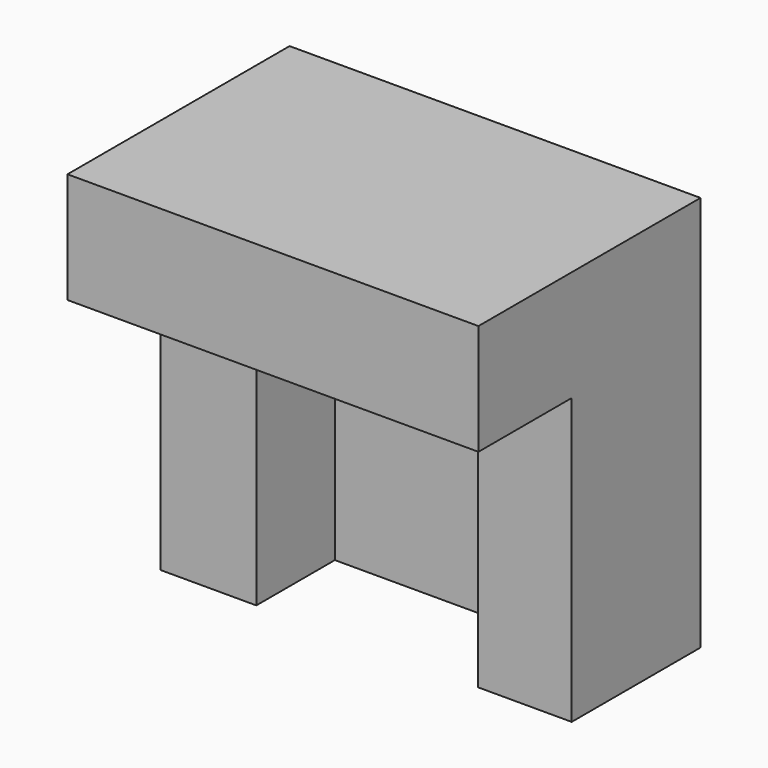
from build123d import *

# Parameters (mm, degrees)
F0_W     = 68.0640637875
F0_H     = 65.563749522
F1_DEPTH = 26.67
F2_W     = 36.6712510586
F2_H     = 47.2281239927
F3_DEPTH = 16.256
F5_DEPTH = 19.304
F6_W     = 36.6712510586
F6_H     = 8.4732808173
F7_DEPTH = 16.256


with BuildPart() as f1:
    # F0 (on Front) → F1 (new body)
    with BuildSketch(Plane.XZ):
        with Locations((3.0559375882, -5.9729684144)):
            Rectangle(F0_W, F0_H)
    extrude(amount=F1_DEPTH)

    # F2 (on face) → F3 (cut)
    with BuildSketch(Plane.XZ.offset(26.67)):
        with Locations((3.1948443502, -15.1407811791)):
            Rectangle(F2_W, F2_H)
    extrude(amount=-F3_DEPTH, mode=Mode.SUBTRACT)

    # F4 (on face) → F5 (join)
    with BuildSketch(Plane.XZ.offset(26.67)):
        Polygon((37.0879694819, 26.8089063466), (-30.9760943055, 26.8089063466), (-30.9760943055, 8.4732808173), (-15.1407811791, 8.4732808173), (21.5304698795, 8.4732808173), (37.0879694819, 8.4732808173), align=None)
    extrude(amount=F5_DEPTH)

    # F6 (on face) → F7 (join)
    with BuildSketch(Plane.XZ.offset(10.414)):
        with Locations((3.1948443502, 4.2366404086)):
            Rectangle(F6_W, F6_H)
    extrude(amount=F7_DEPTH)


solid = f1.part
